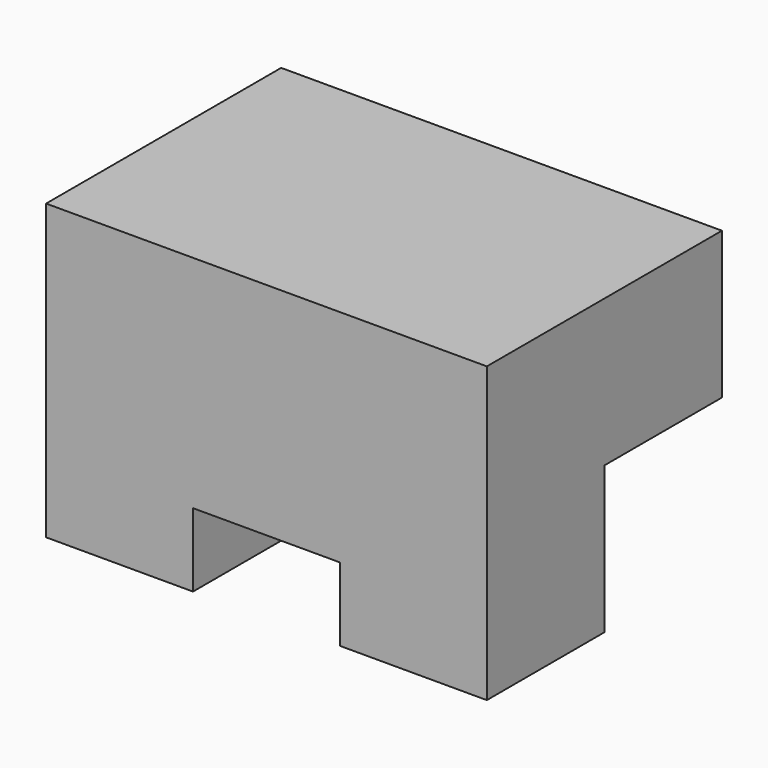
from build123d import *

# Parameters (mm, degrees)
F0_W      = 38.1
F0_H      = 25.4
F1_DEPTH  = 31.75
F2_W      = 19.05
F2_H      = 12.7
F3_DEPTH  = 25.4
F4_W      = 12.7
F4_H      = 6.35
F5_DEPTH  = 25.4
F6_DEPTH  = 19.05
F7_W      = 12.7
F7_H      = 12.7
F8_DEPTH  = 25.4
F9_W      = 12.7
F9_H      = 12.7
F10_DEPTH = 25.4
F11_W     = 12.7
F11_H     = 12.7
F12_DEPTH = 25.4
F13_W     = 38.1
F13_H     = 12.7
F14_DEPTH = 12.7


with BuildPart() as f1:
    # F0 (on Top) → F1 (new body)
    with BuildSketch(Plane.XY):
        with Locations((-19.05, 2.3111041307)):
            Rectangle(F0_W, F0_H)
    extrude(amount=F1_DEPTH)

    # F2 (on face) → F3 (cut)
    with BuildSketch(Plane.XZ.offset(10.3888958693)):
        Polygon((-38.1, 31.75), (-38.1, 25.4), (-19.05, 25.4), (0, 25.4), (0, 31.75), align=None)
        with Locations((-28.575, 19.05)):
            Rectangle(F2_W, F2_H)
    extrude(amount=-F3_DEPTH, mode=Mode.SUBTRACT)

    # F4 (on face) → F5 (cut)
    with BuildSketch(Plane(origin=(0, 15.0111041307, 0), x_dir=(-1, 0, 0), z_dir=(0, 1, 0))):
        with Locations((19.05, 3.175)):
            Rectangle(F4_W, F4_H)
    extrude(amount=-F5_DEPTH, mode=Mode.SUBTRACT)

    # F6 (add): a face of the model
    f6_faces = [f1.faces().sort_by_distance(p)[0] for p in [
        (-19.05, 2.3111041307, 19.05),
    ]]
    extrude(f6_faces, amount=F6_DEPTH)

    # F7 (on face) → F8 (cut)
    with BuildSketch(Plane(origin=(0, 0, 0), x_dir=(1, 0, 0), z_dir=(0, 0, -1))):
        with Locations((-31.75, -8.6611041307)):
            Rectangle(F7_W, F7_H)
    extrude(amount=-F8_DEPTH, mode=Mode.SUBTRACT)

    # F9 (on face) → F10 (cut)
    with BuildSketch(Plane(origin=(0, 0, 0), x_dir=(1, 0, 0), z_dir=(0, 0, -1))):
        with Locations((-6.35, -8.6611041307)):
            Rectangle(F9_W, F9_H)
    extrude(amount=-F10_DEPTH, mode=Mode.SUBTRACT)

    # F11 (on face) → F12 (cut)
    with BuildSketch(Plane(origin=(0, 0, 6.35), x_dir=(1, 0, 0), z_dir=(0, 0, -1))):
        with Locations((-19.05, -8.6611041307)):
            Rectangle(F11_W, F11_H)
    extrude(amount=-F12_DEPTH, mode=Mode.SUBTRACT)

    # F13 (on face) → F14 (join)
    with BuildSketch(Plane(origin=(0, 2.3111041307, 0), x_dir=(-1, 0, 0), z_dir=(0, 1, 0))):
        with Locations((19.05, 19.05)):
            Rectangle(F13_W, F13_H)
    extrude(amount=F14_DEPTH)


solid = f1.part
